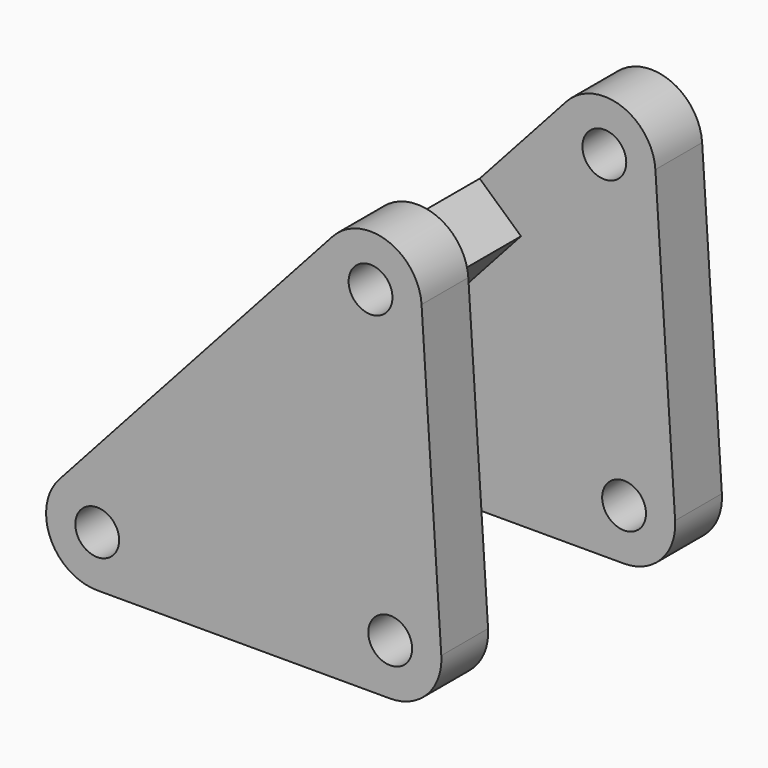
from build123d import *

# Parameters (mm, degrees)
F0_R     = 1.5
F1_DEPTH = 12
F4_DEPTH = 8
F5_DEPTH = 8


with BuildPart() as f1:
    # F0 (on Front) → F1 (new body, symmetric)
    with BuildSketch(Plane.XZ):
        with BuildLine():
            Line((16.1025038779, 23.0518503566), (-2.5974961221, 2.3458503566))
            ThreePointArc((-2.5974961221, 2.3458503566), (-3.1984743432, -1.4211832661), (0, -3.5))
            Line((0, -3.5), (20.05, -3.5))
            ThreePointArc((20.05, -3.5), (22.6041132903, -2.3930117635), (23.5425846566, 0.2277112569))
            Line((23.5425846566, 0.2277112569), (22.1925846566, 20.9337112569))
            ThreePointArc((22.1925846566, 20.9337112569), (19.8497496173, 24.0117640293), (16.1025038779, 23.0518503566))
        make_face()
        Circle(F0_R, mode=Mode.SUBTRACT)
        with Locations((20.05, 0)):
            Circle(F0_R, mode=Mode.SUBTRACT)
        with Locations((18.7, 20.706)):
            Circle(F0_R, mode=Mode.SUBTRACT)
    extrude(amount=F1_DEPTH, both=True)

    # F3 (on Front) → F4 (cut, symmetric)
    with BuildSketch(Plane.XZ):
        with BuildLine():
            ThreePointArc((-2.5974961221, 2.3458503566), (-3.1984743432, -1.4211832661), (0, -3.5))
            Line((0, -3.5), (20.05, -3.5))
            ThreePointArc((20.05, -3.5), (22.6041132903, -2.3930117635), (23.5425846566, 0.2277112569))
            Line((23.5425846566, 0.2277112569), (22.1925846566, 20.9337112569))
            ThreePointArc((22.1925846566, 20.9337112569), (19.8497496173, 24.0117640293), (16.1025038779, 23.0518503566))
            Line((16.1025038779, 23.0518503566), (-2.5974961221, 2.3458503566))
        make_face()
    extrude(amount=F4_DEPTH, both=True, mode=Mode.SUBTRACT)

    # F2 (on Front) → F5 (join, symmetric)
    with BuildSketch(Plane.XZ):
        Polygon((10.1706322474, 16.4836506784), (2.5097552257, 8.0009704853), (5.33731529, 5.4473448114), (12.9981923117, 13.9300250045), align=None)
    extrude(amount=F5_DEPTH, both=True)


solid = f1.part
